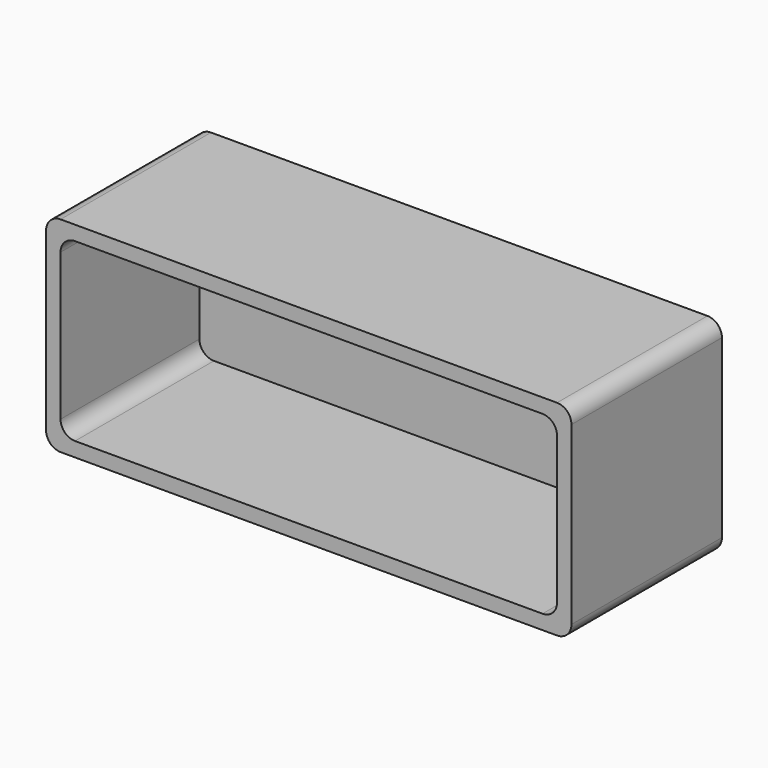
from build123d import *

# Parameters (mm, degrees)
F0_W     = 184.4834834337
F0_H     = 71.9514358789
F1_DEPTH = 66.04
F2_T     = -5.08
F3_DEPTH = 33.02
F4_R     = 5.08
F5_R     = 5.08


with BuildPart() as f1:
    # F0 (on Front) → F1 (new body)
    with BuildSketch(Plane.XZ):
        with Locations((1.5829280019, 5.4683079943)):
            Rectangle(F0_W, F0_H)
    extrude(amount=F1_DEPTH)

    # F2
    f2_openings = [f1.faces().sort_by_distance(p)[0] for p in [
        (1.582928, -66.04, 5.468308),
    ]]
    offset(amount=F2_T, openings=f2_openings)

    # F3 (cut): a face of the model
    f3_faces = [f1.faces().sort_by_distance(p)[0] for p in [
        (1.5829280019, -5.08, 5.4683079943),
    ]]
    extrude(f3_faces, amount=F3_DEPTH, mode=Mode.SUBTRACT)

    # F4
    f4_edges = [f1.edges().sort_by_distance(p)[0] for p in [
        (-90.658814, -33.02, 41.444026),
        (93.82467, -33.02, 41.444026),
        (93.82467, -33.02, -30.50741),
        (-90.658814, -33.02, -30.50741),
    ]]
    fillet(f4_edges, radius=F4_R)

    # F5
    f5_edges = [f1.edges().sort_by_distance(p)[0] for p in [
        (-85.578814, -35.56, -25.42741),
        (88.74467, -35.56, -25.42741),
        (88.74467, -35.56, 36.364026),
        (-85.578814, -35.56, 36.364026),
    ]]
    fillet(f5_edges, radius=F5_R)


solid = f1.part
